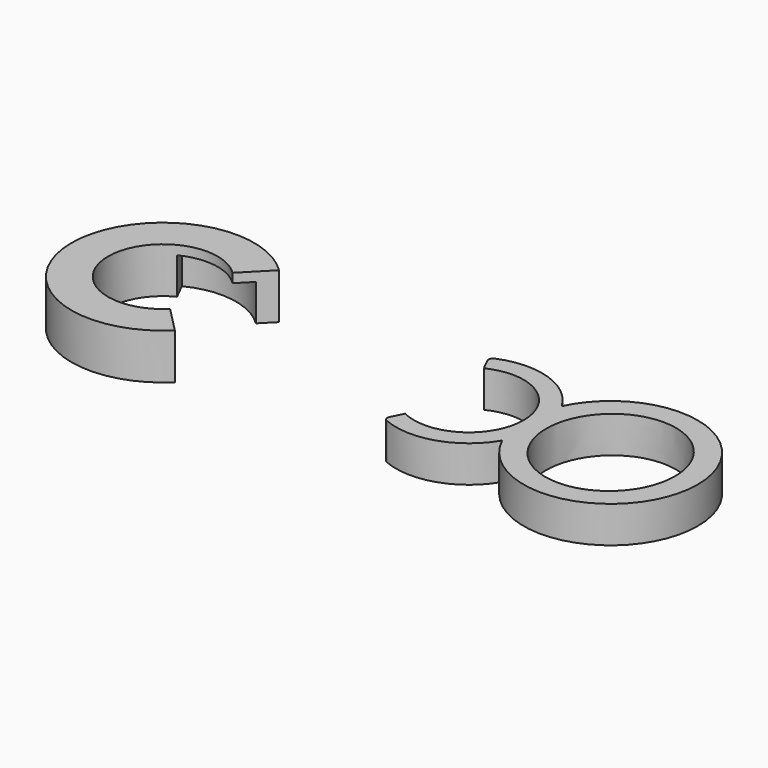
from build123d import *

# Parameters (mm, degrees)
F1_DEPTH  = 8
F2_R      = 19.0552630213
F3_DEPTH  = 8
F5_DEPTH  = 8.001
F6_R      = 1
F7_R      = 20
F7_R_2    = 12
F8_DEPTH  = 10
F10_DEPTH = 8
F12_DEPTH = 10.001


with BuildPart() as f1:
    # F0 (on Top) → F1 (new body)
    with BuildSketch(Plane.XY):
        with BuildLine():
            Line((-5.3879410167, -10.7332278011), (-7.1781391155, -14.2994516971))
            ThreePointArc((-7.1781391155, -14.2994516971), (15.9999968752, -0.0099997218), (-7.160259694, 14.3084129488))
            Line((-7.160259694, 14.3084129488), (-5.3879410167, 10.7667721989))
            ThreePointArc((-5.3879410167, 10.7667721989), (11.9447412353, 0.0167721989), (-5.3879410167, -10.7332278011))
        make_face()
    extrude(amount=F1_DEPTH)

    # F2 (on Top) → F3 (join, through all)
    with BuildSketch(Plane.XY):
        with Locations((30.9999968752, 0)):
            Circle(F2_R)
    extrude(amount=F3_DEPTH)

    # F4 (on Top) → F5 (cut, through all)
    with BuildSketch(Plane.XY):
        with BuildLine():
            add(Edge.make_bspline(
                [(30.9999968752, -14.4), (55.4219132619, -14.4), (43.2109550685, 7.2), (30.9999968752, 28.8), (18.7890386818, 7.2), (6.5780804885, -14.4), (30.9999968752, -14.4)],
                knots=[0, 0, 0, 2.0943951024, 2.0943951024, 4.1887902048, 4.1887902048, 6.2831853072, 6.2831853072, 6.2831853072], degree=2, weights=[1, 0.5, 1, 0.5, 1, 0.5, 1]))
        make_face()
    extrude(amount=F5_DEPTH, mode=Mode.SUBTRACT)

    # F6
    f6_edges = [f1.edges().sort_by_distance(p)[0] for p in [
        (-7.178139, -14.299452, 4),
        (-7.16026, 14.308413, 4),
    ]]
    fillet(f6_edges, radius=F6_R)


with BuildPart() as f8:
    # F7 (on Top) → F8 (new body)
    with BuildSketch(Plane.XY):
        with Locations((-67.0132264495, 0)):
            Circle(F7_R)
        with Locations((-67.0132264495, 0)):
            Circle(F7_R_2, mode=Mode.SUBTRACT)
    extrude(amount=F8_DEPTH)

    # F9 (on Top) → F10 (cut, through all)
    with BuildSketch(Plane.XY):
        with BuildLine():
            Line((-67.0132264495, 0), (-74.2770744453, -14.256104387))
            ThreePointArc((-74.2770744453, -14.256104387), (-51.0132264495, 0), (-74.2770744453, 14.256104387))
            Line((-74.2770744453, 14.256104387), (-67.0132264495, 0))
        make_face()
    extrude(amount=F10_DEPTH, mode=Mode.SUBTRACT)

    # F11 (on Top) → F12 (cut, through all)
    with BuildSketch(Plane.XY):
        with BuildLine():
            Line((-52.9859855338, 14.256104387), (-67.0132264495, 0))
            Line((-67.0132264495, 0), (-52.9859855338, -14.256104387))
            ThreePointArc((-52.9859855338, -14.256104387), (-47.0132264495, 0), (-52.9859855338, 14.256104387))
        make_face()
    extrude(amount=F12_DEPTH, mode=Mode.SUBTRACT)


solid = Compound([f1.part, f8.part])
